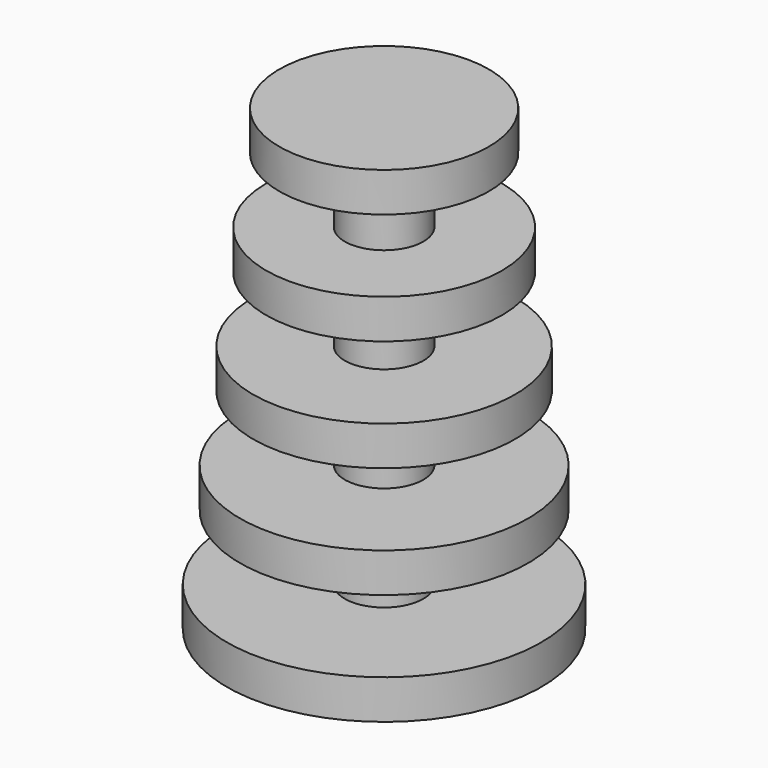
from build123d import *


with BuildPart() as f1:
    # F0 (on Right) → F1 (revolve)
    with BuildSketch(Plane.YZ):
        Polygon((0, 0), (12, 0), (12, 3), (3, 3), (3, 8), (11, 8), (11, 11), (3, 11), (3, 16), (10, 16), (10, 19), (3, 19), (3, 24), (9, 24), (9, 27), (3, 27), (3, 32), (8, 32), (8, 35), (0, 35), align=None)
    revolve(axis=Axis((0, 0, 17.5), (0, 0, -1)))


solid = f1.part
